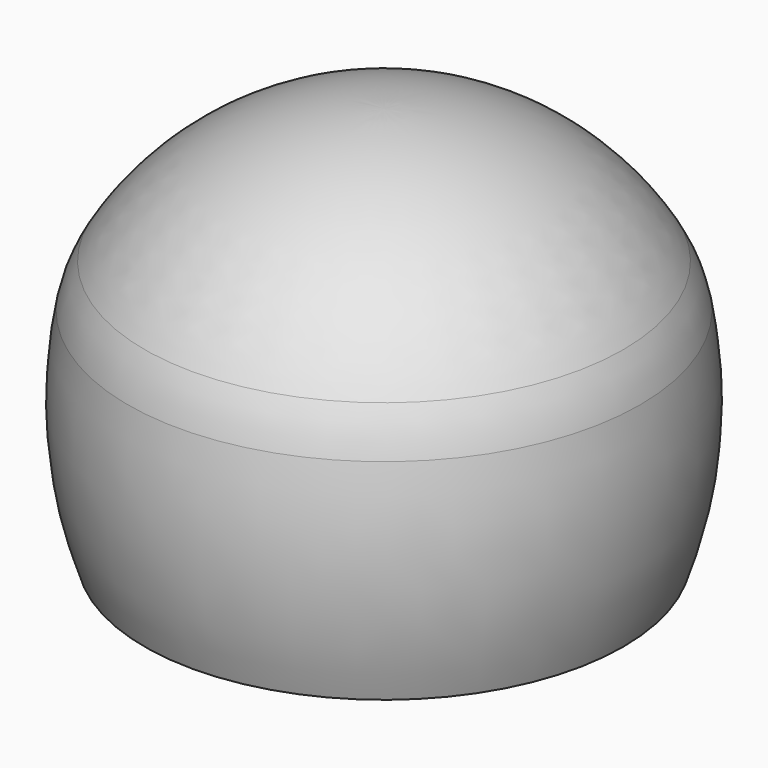
from build123d import *

# Parameters (mm, degrees)
F2_R = 1.2
F3_R = 1.5


with BuildPart() as f1:
    # F0 (on Front) → F1 (revolve)
    with BuildSketch(Plane.XZ):
        with BuildLine():
            ThreePointArc((-3.15, 22.176544), (-3.904884, 22.000063), (-4.65, 21.786058))
            Line((-4.65, 21.786058), (-4.65, 17.676544))
            Line((-4.65, 17.676544), (-3.15, 17.676544))
            Line((-3.15, 17.676544), (-3.15, 22.176544))
        make_face()
        with BuildLine():
            ThreePointArc((-13.230319, 15.075187), (-9.549105, 19.209201), (-4.65, 21.786058))
            ThreePointArc((-4.65, 21.786058), (-3.904884, 22.000063), (-3.15, 22.176544))
            ThreePointArc((-3.15, 22.176544), (-1.583282, 22.418924), (0, 22.5))
            Line((0, 22.5), (0, 24))
            ThreePointArc((0, 24), (-8.319761, 21.825032), (-14.510673, 15.856657))
            ThreePointArc((-14.510673, 15.856657), (-15.13574, 14.594599), (-15.529803, 13.242485))
            ThreePointArc((-15.529803, 13.242485), (-15.927191, 6.551444), (-14.510673, 0))
            Line((-14.510673, 0), (-12.907509, 0))
            ThreePointArc((-12.907509, 0), (-14.408959, 6.393299), (-14.058363, 12.951172))
            ThreePointArc((-14.058363, 12.951172), (-13.738187, 14.049765), (-13.230319, 15.075187))
        make_face()
    revolve(axis=Axis((0, 0, 23.25), (0, 0, 1)))

    # F2
    f2_edges = [f1.edges().sort_by_distance(p)[0] for p in [
        (3.15, 0, 17.676544),
    ]]
    fillet(f2_edges, radius=F2_R)

    # F3
    f3_edges = [f1.edges().sort_by_distance(p)[0] for p in [
        (4.65, 0, 21.786058),
    ]]
    fillet(f3_edges, radius=F3_R)


solid = f1.part
